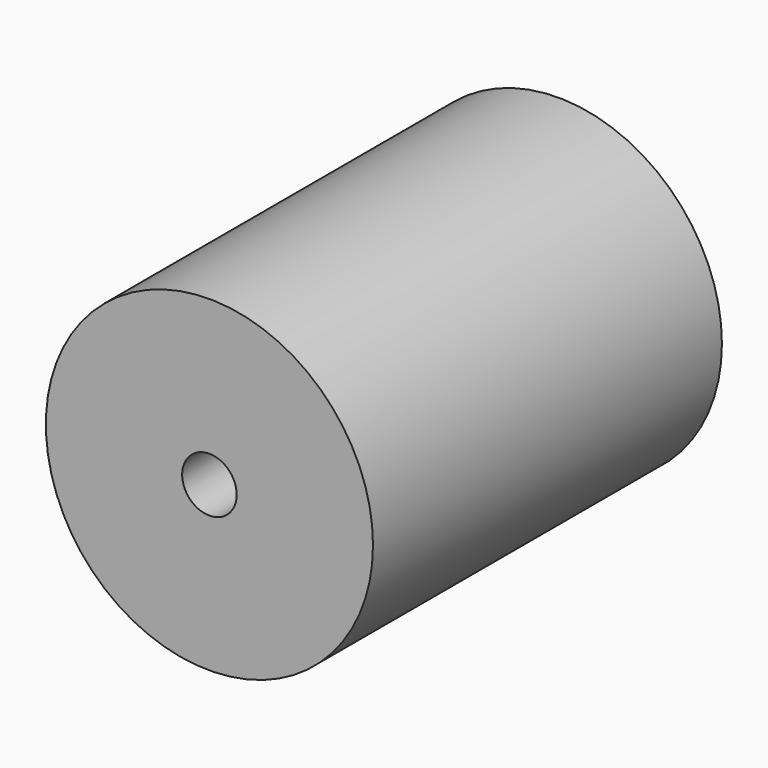
from build123d import *

# Parameters (mm, degrees)
F0_R          = 38.1
F1_DEPTH      = 76.2
F1_DEPTH_BACK = 25.4
F3_D          = 12.7
F3_DEPTH      = 101.6
F3_TIP        = 3.8154649308


with BuildPart() as f1:
    # F0 (on Front) → F1 (new body, two sides)
    with BuildSketch(Plane.XZ) as f1_sk:
        Circle(F0_R)
    extrude(amount=F1_DEPTH)
    extrude(f1_sk.sketch, amount=-F1_DEPTH_BACK)

    # F3 (one way)
    with BuildSketch(Plane(origin=(0, 0, 0), x_dir=(1, 0, 0), z_dir=(0, 1, 0))):
        with Locations((0, 0)):
            Circle(F3_D / 2)
    extrude(amount=-F3_DEPTH, mode=Mode.SUBTRACT)
    with Locations(Plane(origin=(0, 0, 0), x_dir=(1, 0, 0), z_dir=(0, 1, 0))):
        with Locations((0, 0)):
            with Locations((0, 0, -(F3_DEPTH + F3_TIP / 2))):  # 118° drill point
                Cone(0, F3_D / 2, F3_TIP, mode=Mode.SUBTRACT)


solid = f1.part
